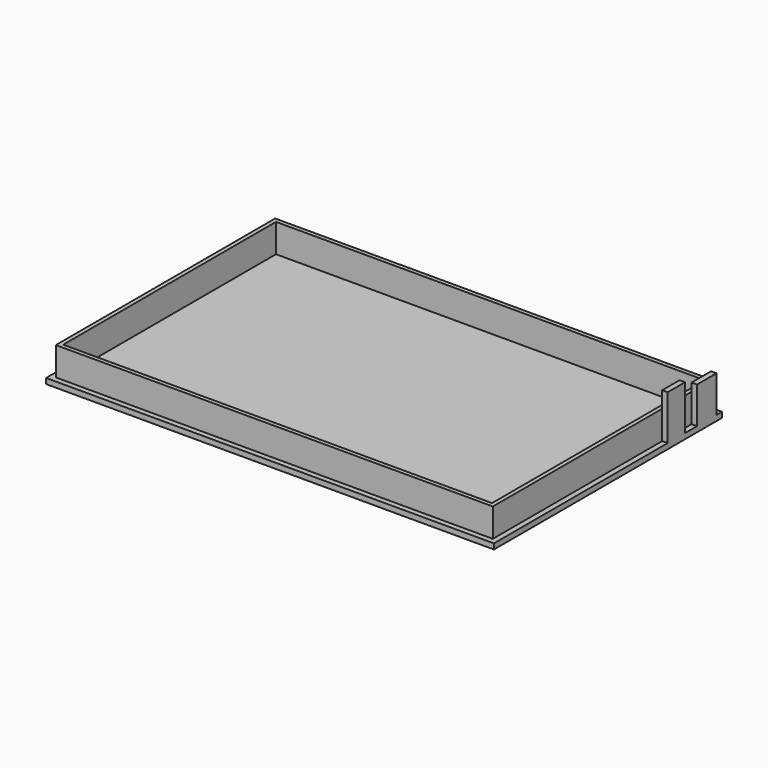
from build123d import *

# Parameters (mm, degrees)
SKETCH_W      = 165
SKETCH_H      = 105
PAD_DEPTH     = 2
SKETCH001_W   = 161
SKETCH001_H   = 101
SKETCH001_W_2 = 158
SKETCH001_H_2 = 98
PAD001_DEPTH  = 10.5
SKETCH002_W   = 2
SKETCH002_H   = 8
PAD002_DEPTH  = 16.5
SKETCH003_W   = 2
SKETCH003_H   = 9
PAD003_DEPTH  = 13.5


with BuildPart() as part:
    # Sketch → Pad (new body)
    with BuildSketch(Plane.XY):
        with Locations((82.5, 52.5)):
            Rectangle(SKETCH_W, SKETCH_H)
    extrude(amount=PAD_DEPTH)

    # Sketch001 → Pad001 (new body)
    with BuildSketch(Plane.XY.offset(2)):
        with Locations((82.5, 52.5)):
            Rectangle(SKETCH001_W, SKETCH001_H)
        with Locations((82.5, 52.5)):
            Rectangle(SKETCH001_W_2, SKETCH001_H_2, mode=Mode.SUBTRACT)
    extrude(amount=PAD001_DEPTH)

    # Sketch002 → Pad002 (new body)
    with BuildSketch(Plane.XY.offset(2)):
        with Locations((164, 84)):
            Rectangle(SKETCH002_W, SKETCH002_H)
    extrude(amount=PAD002_DEPTH)

    # Sketch003 → Pad003 (new body)
    with BuildSketch(Plane.XY.offset(2)):
        with Locations((164, 98)):
            Rectangle(SKETCH003_W, SKETCH003_H)
    extrude(amount=PAD003_DEPTH)


solid = part.part
